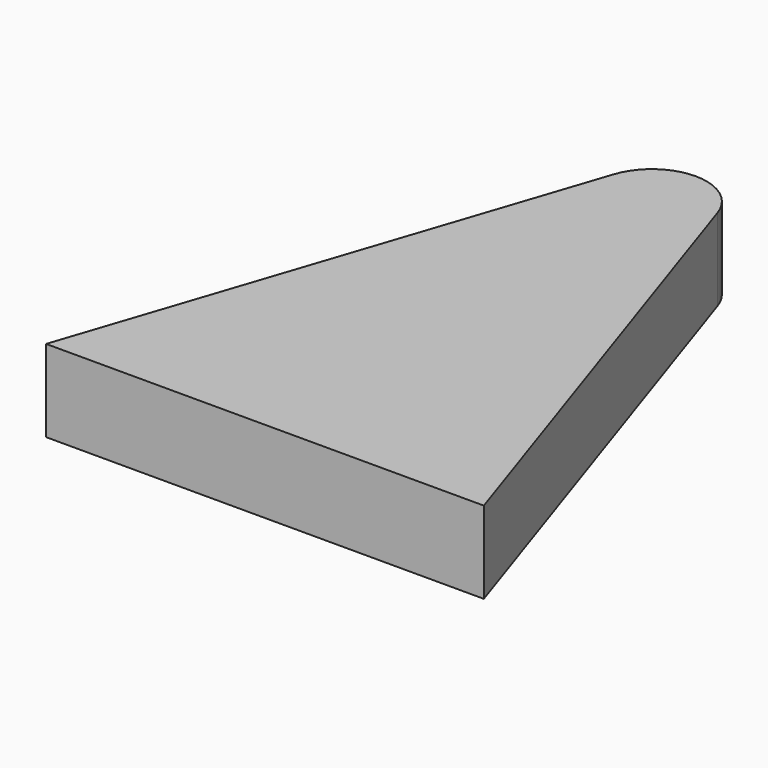
from build123d import *

# Parameters (mm, degrees)
F1_DEPTH = 19.05
F2_R     = 12.7


with BuildPart() as f1:
    # F0 (on Top) → F1 (new body)
    with BuildSketch(Plane.XY):
        Polygon((-50.8, 0), (0, 0), (50.8, 0), (0, 152.4), align=None)
    extrude(amount=F1_DEPTH)

    # F2
    f2_edges = [f1.edges().sort_by_distance(p)[0] for p in [
        (0, 152.4, 9.525),
    ]]
    fillet(f2_edges, radius=F2_R)


solid = f1.part
